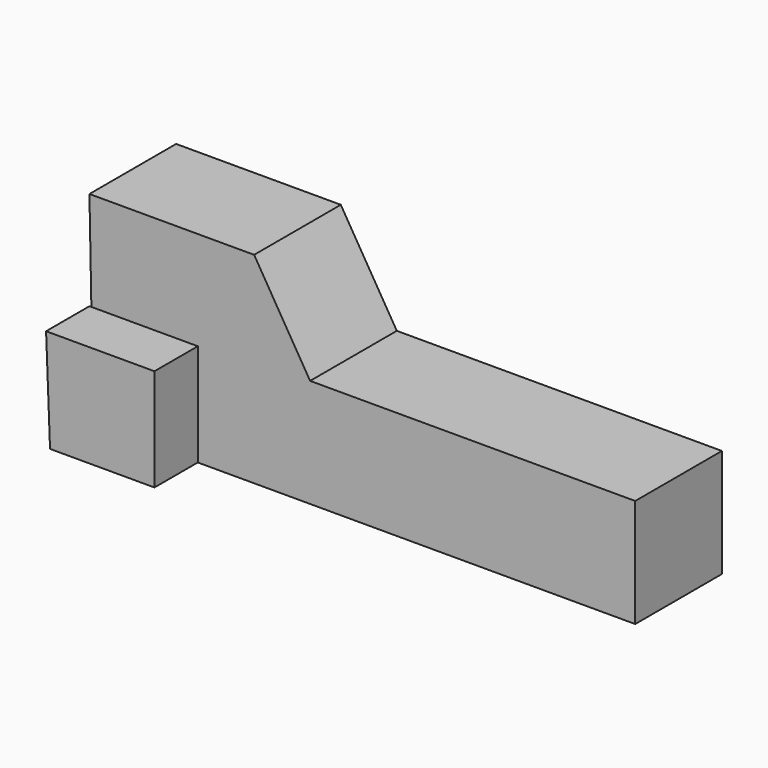
from build123d import *

# Parameters (mm, degrees)
F1_DEPTH = 25.4
F3_DEPTH = 12.7


with BuildPart() as f1:
    # F0 (on Front) → F1 (new body)
    with BuildSketch(Plane.XZ):
        Polygon((-71.807817, 47.144642), (-70.879266, 0), (56.120734, 0), (56.120734, 25.4), (-20.079266, 25.4), (-33.206738, 47.144642), align=None)
    extrude(amount=-F1_DEPTH)

    # F2 (on Front) → F3 (join)
    with BuildSketch(Plane.XZ):
        Polygon((-46.407817, 23.987524), (-71.807817, 23.987524), (-70.879266, 0), (-46.407817, 0), align=None)
    extrude(amount=F3_DEPTH)


solid = f1.part
